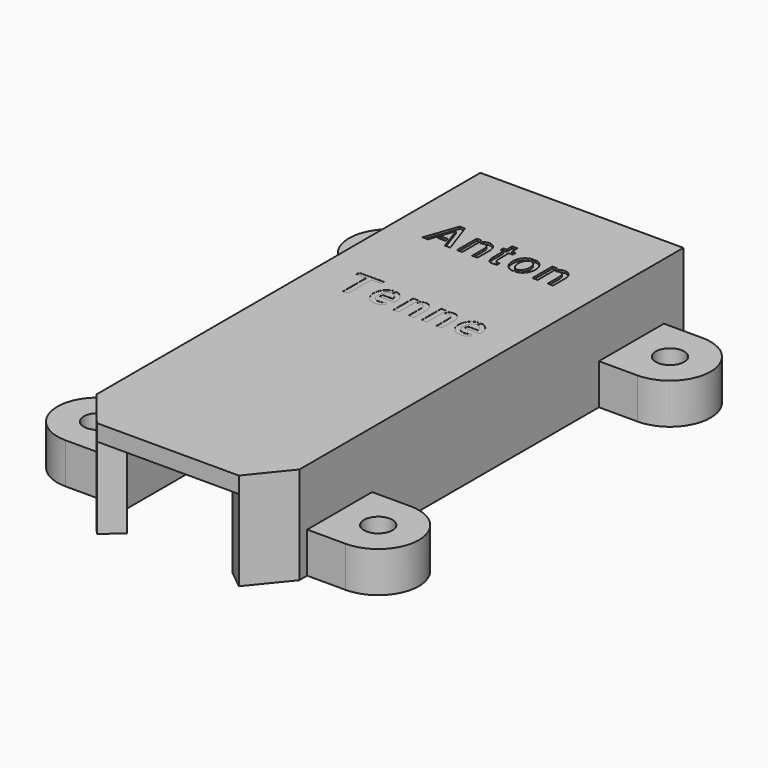
from build123d import *

# Parameters (mm, degrees)
EXTRUDE001_DEPTH = 1
EXTRUDE_DEPTH    = 1
PAD_DEPTH        = 10
PAD001_DEPTH     = 2
POCKET_DEPTH     = 3
SKETCH003_R      = 1.75
PAD002_DEPTH     = 5


with BuildPart() as extrude001:
    # Union → Extrude001 (new body)
    with BuildSketch(Plane(origin=(-7.064568, 4.405674, 12.229239), x_dir=(0, 1, 0), z_dir=(0, 0, 1))):
        Polygon((-2.511998, -0.328358), (1.042954, -0.328358), (1.042954, -1.522388), (1.488002, -1.522388), (1.488002, 1.522388), (1.042954, 1.522388), (1.042954, 0.328358), (-2.511998, 0.328358), align=None)
        with BuildLine():
            add(Edge.make_bspline(
                [(-1.939406, -14.486477), (-1.904128, -14.586884), (-1.849854, -14.687291)],
                knots=[0, 0, 0, 1, 1, 1], degree=2))
            add(Edge.make_bspline(
                [(-1.988253, -14.296517), (-1.974685, -14.38607), (-1.939406, -14.486477)],
                knots=[0, 0, 0, 1, 1, 1], degree=2))
            add(Edge.make_bspline(
                [(-2.001822, -14.147264), (-2.001822, -14.206965), (-1.988253, -14.296517)],
                knots=[0, 0, 0, 1, 1, 1], degree=2))
            add(Edge.make_bspline(
                [(-1.923124, -13.759204), (-2.001822, -13.919313), (-2.001822, -14.147264)],
                knots=[0, 0, 0, 1, 1, 1], degree=2))
            add(Edge.make_bspline(
                [(-1.711455, -13.490547), (-1.844427, -13.599095), (-1.923124, -13.759204)],
                knots=[0, 0, 0, 1, 1, 1], degree=2))
            add(Edge.make_bspline(
                [(-1.396666, -13.330439), (-1.578484, -13.381999), (-1.711455, -13.490547)],
                knots=[0, 0, 0, 1, 1, 1], degree=2))
            add(Edge.make_bspline(
                [(-1.003179, -13.278878), (-1.214847, -13.278878), (-1.396666, -13.330439)],
                knots=[0, 0, 0, 1, 1, 1], degree=2))
            add(Edge.make_bspline(
                [(-0.715526, -13.308729), (-0.883776, -13.278878), (-1.003179, -13.278878)],
                knots=[0, 0, 0, 1, 1, 1], degree=2))
            add(Edge.make_bspline(
                [(-0.387168, -13.41185), (-0.547276, -13.33858), (-0.715526, -13.308729)],
                knots=[0, 0, 0, 1, 1, 1], degree=2))
            add(Edge.make_bspline(
                [(-0.102229, -13.615378), (-0.227059, -13.48512), (-0.387168, -13.41185)],
                knots=[0, 0, 0, 1, 1, 1], degree=2))
            add(Edge.make_bspline(
                [(0.060594, -13.94645), (0.022602, -13.745635), (-0.102229, -13.615378)],
                knots=[0, 0, 0, 1, 1, 1], degree=2))
            Line((0.060594, -13.94645), (0.581625, -13.94645))
            add(Edge.make_bspline(
                [(0.435085, -13.449842), (0.565342, -13.680507), (0.581625, -13.94645)],
                knots=[0, 0, 0, 1, 1, 1], degree=2))
            add(Edge.make_bspline(
                [(0.095872, -13.0455), (0.304827, -13.219177), (0.435085, -13.449842)],
                knots=[0, 0, 0, 1, 1, 1], degree=2))
            add(Edge.make_bspline(
                [(-0.389881, -12.771416), (-0.113084, -12.871823), (0.095872, -13.0455)],
                knots=[0, 0, 0, 1, 1, 1], degree=2))
            add(Edge.make_bspline(
                [(-0.976041, -12.671009), (-0.666679, -12.671009), (-0.389881, -12.771416)],
                knots=[0, 0, 0, 1, 1, 1], degree=2))
            add(Edge.make_bspline(
                [(-1.583911, -12.779557), (-1.301686, -12.671009), (-0.976041, -12.671009)],
                knots=[0, 0, 0, 1, 1, 1], degree=2))
            add(Edge.make_bspline(
                [(-2.077805, -13.072637), (-1.866136, -12.888105), (-1.583911, -12.779557)],
                knots=[0, 0, 0, 1, 1, 1], degree=2))
            add(Edge.make_bspline(
                [(-2.411591, -13.517684), (-2.289474, -13.257169), (-2.077805, -13.072637)],
                knots=[0, 0, 0, 1, 1, 1], degree=2))
            add(Edge.make_bspline(
                [(-2.533708, -14.076707), (-2.533708, -13.7782), (-2.411591, -13.517684)],
                knots=[0, 0, 0, 1, 1, 1], degree=2))
            add(Edge.make_bspline(
                [(-2.419732, -14.684577), (-2.533708, -14.445771), (-2.533708, -14.076707)],
                knots=[0, 0, 0, 1, 1, 1], degree=2))
            add(Edge.make_bspline(
                [(-2.083233, -15.102488), (-2.305757, -14.923383), (-2.419732, -14.684577)],
                knots=[0, 0, 0, 1, 1, 1], degree=2))
            Line((-2.083233, -15.102488), (-1.719596, -14.863682))
            add(Edge.make_bspline(
                [(-1.849854, -14.687291), (-1.79558, -14.787698), (-1.719596, -14.863682)],
                knots=[0, 0, 0, 1, 1, 1], degree=2))
        make_face()
        with BuildLine():
            add(Edge.make_bspline(
                [(-1.939406, -4.00796), (-1.904128, -4.108367), (-1.849854, -4.208774)],
                knots=[0, 0, 0, 1, 1, 1], degree=2))
            add(Edge.make_bspline(
                [(-1.988253, -3.818001), (-1.974685, -3.907553), (-1.939406, -4.00796)],
                knots=[0, 0, 0, 1, 1, 1], degree=2))
            add(Edge.make_bspline(
                [(-2.001822, -3.668747), (-2.001822, -3.728449), (-1.988253, -3.818001)],
                knots=[0, 0, 0, 1, 1, 1], degree=2))
            add(Edge.make_bspline(
                [(-1.923124, -3.280687), (-2.001822, -3.440796), (-2.001822, -3.668747)],
                knots=[0, 0, 0, 1, 1, 1], degree=2))
            add(Edge.make_bspline(
                [(-1.711455, -3.012031), (-1.844427, -3.120579), (-1.923124, -3.280687)],
                knots=[0, 0, 0, 1, 1, 1], degree=2))
            add(Edge.make_bspline(
                [(-1.396666, -2.851922), (-1.578484, -2.903483), (-1.711455, -3.012031)],
                knots=[0, 0, 0, 1, 1, 1], degree=2))
            add(Edge.make_bspline(
                [(-1.003179, -2.800362), (-1.214847, -2.800362), (-1.396666, -2.851922)],
                knots=[0, 0, 0, 1, 1, 1], degree=2))
            add(Edge.make_bspline(
                [(-0.715526, -2.830213), (-0.883776, -2.800362), (-1.003179, -2.800362)],
                knots=[0, 0, 0, 1, 1, 1], degree=2))
            add(Edge.make_bspline(
                [(-0.387168, -2.933333), (-0.547276, -2.860063), (-0.715526, -2.830213)],
                knots=[0, 0, 0, 1, 1, 1], degree=2))
            add(Edge.make_bspline(
                [(-0.102229, -3.136861), (-0.227059, -3.006603), (-0.387168, -2.933333)],
                knots=[0, 0, 0, 1, 1, 1], degree=2))
            add(Edge.make_bspline(
                [(0.060594, -3.467933), (0.022602, -3.267119), (-0.102229, -3.136861)],
                knots=[0, 0, 0, 1, 1, 1], degree=2))
            Line((0.060594, -3.467933), (0.581625, -3.467933))
            add(Edge.make_bspline(
                [(0.435085, -2.971325), (0.565342, -3.20199), (0.581625, -3.467933)],
                knots=[0, 0, 0, 1, 1, 1], degree=2))
            add(Edge.make_bspline(
                [(0.095872, -2.566983), (0.304827, -2.74066), (0.435085, -2.971325)],
                knots=[0, 0, 0, 1, 1, 1], degree=2))
            add(Edge.make_bspline(
                [(-0.389881, -2.292899), (-0.113084, -2.393306), (0.095872, -2.566983)],
                knots=[0, 0, 0, 1, 1, 1], degree=2))
            add(Edge.make_bspline(
                [(-0.976041, -2.192492), (-0.666679, -2.192492), (-0.389881, -2.292899)],
                knots=[0, 0, 0, 1, 1, 1], degree=2))
            add(Edge.make_bspline(
                [(-1.583911, -2.30104), (-1.301686, -2.192492), (-0.976041, -2.192492)],
                knots=[0, 0, 0, 1, 1, 1], degree=2))
            add(Edge.make_bspline(
                [(-2.077805, -2.59412), (-1.866136, -2.409588), (-1.583911, -2.30104)],
                knots=[0, 0, 0, 1, 1, 1], degree=2))
            add(Edge.make_bspline(
                [(-2.411591, -3.039168), (-2.289474, -2.778652), (-2.077805, -2.59412)],
                knots=[0, 0, 0, 1, 1, 1], degree=2))
            add(Edge.make_bspline(
                [(-2.533708, -3.598191), (-2.533708, -3.299683), (-2.411591, -3.039168)],
                knots=[0, 0, 0, 1, 1, 1], degree=2))
            add(Edge.make_bspline(
                [(-2.419732, -4.206061), (-2.533708, -3.967255), (-2.533708, -3.598191)],
                knots=[0, 0, 0, 1, 1, 1], degree=2))
            add(Edge.make_bspline(
                [(-2.083233, -4.623971), (-2.305757, -4.444867), (-2.419732, -4.206061)],
                knots=[0, 0, 0, 1, 1, 1], degree=2))
            Line((-2.083233, -4.623971), (-1.719596, -4.385165))
            add(Edge.make_bspline(
                [(-1.849854, -4.208774), (-1.79558, -4.309181), (-1.719596, -4.385165)],
                knots=[0, 0, 0, 1, 1, 1], degree=2))
        make_face()
        with BuildLine():
            add(Edge.make_bspline(
                [(-0.25691, -11.807508), (-0.389881, -11.831931), (-0.525567, -11.837359)],
                knots=[0, 0, 0, 1, 1, 1], degree=2))
            add(Edge.make_bspline(
                [(-0.001822, -11.731524), (-0.123938, -11.783085), (-0.25691, -11.807508)],
                knots=[0, 0, 0, 1, 1, 1], degree=2))
            add(Edge.make_bspline(
                [(0.212561, -11.587698), (0.120295, -11.679964), (-0.001822, -11.731524)],
                knots=[0, 0, 0, 1, 1, 1], degree=2))
            add(Edge.make_bspline(
                [(0.481218, -11.251199), (0.380811, -11.419448), (0.212561, -11.587698)],
                knots=[0, 0, 0, 1, 1, 1], degree=2))
            add(Edge.make_bspline(
                [(0.581625, -10.838716), (0.581625, -11.082949), (0.481218, -11.251199)],
                knots=[0, 0, 0, 1, 1, 1], degree=2))
            add(Edge.make_bspline(
                [(0.527351, -10.50493), (0.581625, -10.675893), (0.581625, -10.838716)],
                knots=[0, 0, 0, 1, 1, 1], degree=2))
            add(Edge.make_bspline(
                [(0.397093, -10.187427), (0.473077, -10.333967), (0.527351, -10.50493)],
                knots=[0, 0, 0, 1, 1, 1], degree=2))
            Line((0.397093, -10.187427), (-0.020818, -10.187427))
            add(Edge.make_bspline(
                [(0.05788, -10.434374), (0.033456, -10.306829), (-0.020818, -10.187427)],
                knots=[0, 0, 0, 1, 1, 1], degree=2))
            add(Edge.make_bspline(
                [(0.082303, -10.637901), (0.082303, -10.561918), (0.05788, -10.434374)],
                knots=[0, 0, 0, 1, 1, 1], degree=2))
            add(Edge.make_bspline(
                [(0.009033, -10.925554), (0.082303, -10.822433), (0.082303, -10.637901)],
                knots=[0, 0, 0, 1, 1, 1], degree=2))
            add(Edge.make_bspline(
                [(-0.194495, -11.088376), (-0.064237, -11.028675), (0.009033, -10.925554)],
                knots=[0, 0, 0, 1, 1, 1], degree=2))
            add(Edge.make_bspline(
                [(-0.493002, -11.16436), (-0.324752, -11.148078), (-0.194495, -11.088376)],
                knots=[0, 0, 0, 1, 1, 1], degree=2))
            add(Edge.make_bspline(
                [(-0.845784, -11.180642), (-0.661252, -11.180642), (-0.493002, -11.16436)],
                knots=[0, 0, 0, 1, 1, 1], degree=2))
            Line((-0.845784, -11.180642), (-2.511998, -11.180642))
            Line((-2.511998, -11.180642), (-2.511998, -11.842786))
            Line((-2.511998, -11.842786), (-2.40345, -11.842786))
            Line((-2.40345, -11.842786), (-0.79151, -11.842786))
            add(Edge.make_bspline(
                [(-0.525567, -11.837359), (-0.661252, -11.842786), (-0.79151, -11.842786)],
                knots=[0, 0, 0, 1, 1, 1], degree=2))
        make_face()
        with BuildLine():
            add(Edge.make_bspline(
                [(-0.25691, -8.368702), (-0.389881, -8.393125), (-0.525567, -8.398553)],
                knots=[0, 0, 0, 1, 1, 1], degree=2))
            add(Edge.make_bspline(
                [(-0.001822, -8.292718), (-0.123938, -8.344279), (-0.25691, -8.368702)],
                knots=[0, 0, 0, 1, 1, 1], degree=2))
            add(Edge.make_bspline(
                [(0.212561, -8.148892), (0.120295, -8.241158), (-0.001822, -8.292718)],
                knots=[0, 0, 0, 1, 1, 1], degree=2))
            add(Edge.make_bspline(
                [(0.481218, -7.812393), (0.380811, -7.980642), (0.212561, -8.148892)],
                knots=[0, 0, 0, 1, 1, 1], degree=2))
            add(Edge.make_bspline(
                [(0.581625, -7.39991), (0.581625, -7.644143), (0.481218, -7.812393)],
                knots=[0, 0, 0, 1, 1, 1], degree=2))
            add(Edge.make_bspline(
                [(0.527351, -7.066124), (0.581625, -7.237087), (0.581625, -7.39991)],
                knots=[0, 0, 0, 1, 1, 1], degree=2))
            add(Edge.make_bspline(
                [(0.397093, -6.748621), (0.473077, -6.895161), (0.527351, -7.066124)],
                knots=[0, 0, 0, 1, 1, 1], degree=2))
            Line((0.397093, -6.748621), (-0.020818, -6.748621))
            add(Edge.make_bspline(
                [(0.05788, -6.995568), (0.033456, -6.868024), (-0.020818, -6.748621)],
                knots=[0, 0, 0, 1, 1, 1], degree=2))
            add(Edge.make_bspline(
                [(0.082303, -7.199095), (0.082303, -7.123112), (0.05788, -6.995568)],
                knots=[0, 0, 0, 1, 1, 1], degree=2))
            add(Edge.make_bspline(
                [(0.009033, -7.486748), (0.082303, -7.383627), (0.082303, -7.199095)],
                knots=[0, 0, 0, 1, 1, 1], degree=2))
            add(Edge.make_bspline(
                [(-0.194495, -7.64957), (-0.064237, -7.589869), (0.009033, -7.486748)],
                knots=[0, 0, 0, 1, 1, 1], degree=2))
            add(Edge.make_bspline(
                [(-0.493002, -7.725554), (-0.324752, -7.709272), (-0.194495, -7.64957)],
                knots=[0, 0, 0, 1, 1, 1], degree=2))
            add(Edge.make_bspline(
                [(-0.845784, -7.741836), (-0.661252, -7.741836), (-0.493002, -7.725554)],
                knots=[0, 0, 0, 1, 1, 1], degree=2))
            Line((-0.845784, -7.741836), (-2.511998, -7.741836))
            Line((-2.511998, -7.741836), (-2.511998, -8.40398))
            Line((-2.511998, -8.40398), (-2.40345, -8.40398))
            Line((-2.40345, -8.40398), (-0.79151, -8.40398))
            add(Edge.make_bspline(
                [(-0.525567, -8.398553), (-0.661252, -8.40398), (-0.79151, -8.40398)],
                knots=[0, 0, 0, 1, 1, 1], degree=2))
        make_face()
        Polygon((-2.511998, -9.308186), (-2.511998, -9.964903), (0.239698, -9.964903), (0.54906, -9.894346), (0.54906, -9.308186), align=None)
        Polygon((-2.511998, -5.86938), (-2.511998, -6.526097), (0.239698, -6.526097), (0.54906, -6.45554), (0.54906, -5.86938), align=None)
        with BuildLine():
            add(Edge.make_bspline(
                [(0.082303, -4.623971), (-0.123938, -4.792221), (-0.389881, -4.881773)],
                knots=[0, 0, 0, 1, 1, 1], degree=2))
            add(Edge.make_bspline(
                [(0.418802, -4.219629), (0.288545, -4.455721), (0.082303, -4.623971)],
                knots=[0, 0, 0, 1, 1, 1], degree=2))
            add(Edge.make_bspline(
                [(0.576197, -3.690457), (0.54906, -3.983537), (0.418802, -4.219629)],
                knots=[0, 0, 0, 1, 1, 1], degree=2))
            Line((0.576197, -3.690457), (0.066021, -3.690457))
            add(Edge.make_bspline(
                [(-0.026245, -3.9564), (0.049739, -3.836997), (0.066021, -3.690457)],
                knots=[0, 0, 0, 1, 1, 1], degree=2))
            add(Edge.make_bspline(
                [(-0.213491, -4.165355), (-0.102229, -4.075803), (-0.026245, -3.9564)],
                knots=[0, 0, 0, 1, 1, 1], degree=2))
            add(Edge.make_bspline(
                [(-0.45501, -4.30104), (-0.324752, -4.254907), (-0.213491, -4.165355)],
                knots=[0, 0, 0, 1, 1, 1], degree=2))
            add(Edge.make_bspline(
                [(-0.726381, -4.347173), (-0.585268, -4.347173), (-0.45501, -4.30104)],
                knots=[0, 0, 0, 1, 1, 1], degree=2))
            Line((-0.726381, -4.347173), (-0.726381, -3.093442))
            Line((-0.726381, -3.093442), (-1.203993, -3.093442))
            Line((-1.203993, -3.093442), (-1.203993, -4.955043))
            add(Edge.make_bspline(
                [(-0.943477, -4.971325), (-1.073735, -4.971325), (-1.203993, -4.955043)],
                knots=[0, 0, 0, 1, 1, 1], degree=2))
            add(Edge.make_bspline(
                [(-0.389881, -4.881773), (-0.655824, -4.971325), (-0.943477, -4.971325)],
                knots=[0, 0, 0, 1, 1, 1], degree=2))
        make_face()
        with BuildLine():
            add(Edge.make_bspline(
                [(0.082303, -15.102488), (-0.123938, -15.270737), (-0.389881, -15.360289)],
                knots=[0, 0, 0, 1, 1, 1], degree=2))
            add(Edge.make_bspline(
                [(0.418802, -14.698146), (0.288545, -14.934238), (0.082303, -15.102488)],
                knots=[0, 0, 0, 1, 1, 1], degree=2))
            add(Edge.make_bspline(
                [(0.576197, -14.168973), (0.54906, -14.462053), (0.418802, -14.698146)],
                knots=[0, 0, 0, 1, 1, 1], degree=2))
            Line((0.576197, -14.168973), (0.066021, -14.168973))
            add(Edge.make_bspline(
                [(-0.026245, -14.434916), (0.049739, -14.315513), (0.066021, -14.168973)],
                knots=[0, 0, 0, 1, 1, 1], degree=2))
            add(Edge.make_bspline(
                [(-0.213491, -14.643872), (-0.102229, -14.554319), (-0.026245, -14.434916)],
                knots=[0, 0, 0, 1, 1, 1], degree=2))
            add(Edge.make_bspline(
                [(-0.45501, -14.779557), (-0.324752, -14.733424), (-0.213491, -14.643872)],
                knots=[0, 0, 0, 1, 1, 1], degree=2))
            add(Edge.make_bspline(
                [(-0.726381, -14.82569), (-0.585268, -14.82569), (-0.45501, -14.779557)],
                knots=[0, 0, 0, 1, 1, 1], degree=2))
            Line((-0.726381, -14.82569), (-0.726381, -13.571958))
            Line((-0.726381, -13.571958), (-1.203993, -13.571958))
            Line((-1.203993, -13.571958), (-1.203993, -15.433559))
            add(Edge.make_bspline(
                [(-0.943477, -15.449842), (-1.073735, -15.449842), (-1.203993, -15.433559)],
                knots=[0, 0, 0, 1, 1, 1], degree=2))
            add(Edge.make_bspline(
                [(-0.389881, -15.360289), (-0.655824, -15.449842), (-0.943477, -15.449842)],
                knots=[0, 0, 0, 1, 1, 1], degree=2))
        make_face()
    extrude(amount=EXTRUDE001_DEPTH)


with BuildPart() as extrude001_1:
    # Extrude001 placement: moved
    add(extrude001.part.moved(Location((0, 0, -0.25))))


with BuildPart() as extrude_body:
    # Union001 → Extrude (new body)
    with BuildSketch(Plane(origin=(-6.739484, 17.310937, 12), x_dir=(0, 1, 0), z_dir=(0, 0, 1))):
        Polygon((-1.87963, 1.039937), (1.116299, -0.007552), (-1.87963, -1.044187), (-1.87963, -1.717186), (2.114943, -0.327769), (2.114943, 0.318092), (-1.87963, 1.718364), align=None)
        with BuildLine():
            add(Edge.make_bspline(
                [(-1.396591, -7.028267), (-1.450865, -7.117819), (-1.464433, -7.229081)],
                knots=[0, 0, 0, 1, 1, 1], degree=2))
            add(Edge.make_bspline(
                [(-1.239196, -6.889868), (-1.342317, -6.938715), (-1.396591, -7.028267)],
                knots=[0, 0, 0, 1, 1, 1], degree=2))
            add(Edge.make_bspline(
                [(-0.951543, -6.841021), (-1.136075, -6.841021), (-1.239196, -6.889868)],
                knots=[0, 0, 0, 1, 1, 1], degree=2))
            Line((-0.951543, -6.841021), (0.736381, -6.841021))
            Line((0.736381, -6.841021), (0.736381, -7.329488))
            Line((0.736381, -7.329488), (1.181428, -7.329488))
            Line((1.181428, -7.329488), (1.181428, -6.841021))
            Line((1.181428, -6.841021), (2.049814, -6.841021))
            Line((2.049814, -6.841021), (2.049814, -6.184305))
            Line((2.049814, -6.184305), (1.181428, -6.184305))
            Line((1.181428, -6.184305), (1.181428, -5.782677))
            Line((1.181428, -5.782677), (0.736381, -5.782677))
            Line((0.736381, -5.782677), (0.736381, -6.184305))
            Line((0.736381, -6.184305), (-0.913551, -6.184305))
            add(Edge.make_bspline(
                [(-1.141503, -6.197873), (-0.994962, -6.184305), (-0.913551, -6.184305)],
                knots=[0, 0, 0, 1, 1, 1], degree=2))
            add(Edge.make_bspline(
                [(-1.442724, -6.263002), (-1.288043, -6.211442), (-1.141503, -6.197873)],
                knots=[0, 0, 0, 1, 1, 1], degree=2))
            add(Edge.make_bspline(
                [(-1.724949, -6.417684), (-1.597405, -6.314563), (-1.442724, -6.263002)],
                knots=[0, 0, 0, 1, 1, 1], degree=2))
            add(Edge.make_bspline(
                [(-1.885057, -6.705336), (-1.852493, -6.520804), (-1.724949, -6.417684)],
                knots=[0, 0, 0, 1, 1, 1], degree=2))
            add(Edge.make_bspline(
                [(-1.90134, -6.849162), (-1.895912, -6.765038), (-1.885057, -6.705336)],
                knots=[0, 0, 0, 1, 1, 1], degree=2))
            add(Edge.make_bspline(
                [(-1.906767, -7.014698), (-1.906767, -6.933287), (-1.90134, -6.849162)],
                knots=[0, 0, 0, 1, 1, 1], degree=2))
            add(Edge.make_bspline(
                [(-1.904053, -7.180234), (-1.906767, -7.09611), (-1.906767, -7.014698)],
                knots=[0, 0, 0, 1, 1, 1], degree=2))
            add(Edge.make_bspline(
                [(-1.895912, -7.324061), (-1.90134, -7.264359), (-1.904053, -7.180234)],
                knots=[0, 0, 0, 1, 1, 1], degree=2))
            add(Edge.make_bspline(
                [(-1.87963, -7.465173), (-1.890485, -7.394617), (-1.895912, -7.324061)],
                knots=[0, 0, 0, 1, 1, 1], degree=2))
            Line((-1.87963, -7.465173), (-1.478002, -7.465173))
            add(Edge.make_bspline(
                [(-1.464433, -7.229081), (-1.478002, -7.340343), (-1.478002, -7.465173)],
                knots=[0, 0, 0, 1, 1, 1], degree=2))
        make_face()
        with BuildLine():
            add(Edge.make_bspline(
                [(0.375458, -14.325237), (0.242487, -14.34966), (0.106801, -14.355087)],
                knots=[0, 0, 0, 1, 1, 1], degree=2))
            add(Edge.make_bspline(
                [(0.630546, -14.249253), (0.50843, -14.300813), (0.375458, -14.325237)],
                knots=[0, 0, 0, 1, 1, 1], degree=2))
            add(Edge.make_bspline(
                [(0.844929, -14.105427), (0.752663, -14.197693), (0.630546, -14.249253)],
                knots=[0, 0, 0, 1, 1, 1], degree=2))
            add(Edge.make_bspline(
                [(1.113586, -13.768927), (1.013179, -13.937177), (0.844929, -14.105427)],
                knots=[0, 0, 0, 1, 1, 1], degree=2))
            add(Edge.make_bspline(
                [(1.213993, -13.356444), (1.213993, -13.600678), (1.113586, -13.768927)],
                knots=[0, 0, 0, 1, 1, 1], degree=2))
            add(Edge.make_bspline(
                [(1.159719, -13.022659), (1.213993, -13.193622), (1.213993, -13.356444)],
                knots=[0, 0, 0, 1, 1, 1], degree=2))
            add(Edge.make_bspline(
                [(1.029461, -12.705155), (1.105445, -12.851695), (1.159719, -13.022659)],
                knots=[0, 0, 0, 1, 1, 1], degree=2))
            Line((1.029461, -12.705155), (0.61155, -12.705155))
            add(Edge.make_bspline(
                [(0.690248, -12.952102), (0.665824, -12.824558), (0.61155, -12.705155)],
                knots=[0, 0, 0, 1, 1, 1], degree=2))
            add(Edge.make_bspline(
                [(0.714671, -13.15563), (0.714671, -13.079646), (0.690248, -12.952102)],
                knots=[0, 0, 0, 1, 1, 1], degree=2))
            add(Edge.make_bspline(
                [(0.641401, -13.443283), (0.714671, -13.340162), (0.714671, -13.15563)],
                knots=[0, 0, 0, 1, 1, 1], degree=2))
            add(Edge.make_bspline(
                [(0.437873, -13.606105), (0.568131, -13.546404), (0.641401, -13.443283)],
                knots=[0, 0, 0, 1, 1, 1], degree=2))
            add(Edge.make_bspline(
                [(0.139366, -13.682089), (0.307616, -13.665807), (0.437873, -13.606105)],
                knots=[0, 0, 0, 1, 1, 1], degree=2))
            add(Edge.make_bspline(
                [(-0.213416, -13.698371), (-0.028884, -13.698371), (0.139366, -13.682089)],
                knots=[0, 0, 0, 1, 1, 1], degree=2))
            Line((-0.213416, -13.698371), (-1.87963, -13.698371))
            Line((-1.87963, -13.698371), (-1.87963, -14.360515))
            Line((-1.87963, -14.360515), (-1.771082, -14.360515))
            Line((-1.771082, -14.360515), (-0.159142, -14.360515))
            add(Edge.make_bspline(
                [(0.106801, -14.355087), (-0.028884, -14.360515), (-0.159142, -14.360515)],
                knots=[0, 0, 0, 1, 1, 1], degree=2))
        make_face()
        with BuildLine():
            add(Edge.make_bspline(
                [(0.375458, -5.027724), (0.242487, -5.052148), (0.106801, -5.057575)],
                knots=[0, 0, 0, 1, 1, 1], degree=2))
            add(Edge.make_bspline(
                [(0.630546, -4.951741), (0.50843, -5.003301), (0.375458, -5.027724)],
                knots=[0, 0, 0, 1, 1, 1], degree=2))
            add(Edge.make_bspline(
                [(0.844929, -4.807914), (0.752663, -4.90018), (0.630546, -4.951741)],
                knots=[0, 0, 0, 1, 1, 1], degree=2))
            add(Edge.make_bspline(
                [(1.113586, -4.471415), (1.013179, -4.639665), (0.844929, -4.807914)],
                knots=[0, 0, 0, 1, 1, 1], degree=2))
            add(Edge.make_bspline(
                [(1.213993, -4.058932), (1.213993, -4.303165), (1.113586, -4.471415)],
                knots=[0, 0, 0, 1, 1, 1], degree=2))
            add(Edge.make_bspline(
                [(1.159719, -3.725146), (1.213993, -3.89611), (1.213993, -4.058932)],
                knots=[0, 0, 0, 1, 1, 1], degree=2))
            add(Edge.make_bspline(
                [(1.029461, -3.407643), (1.105445, -3.554183), (1.159719, -3.725146)],
                knots=[0, 0, 0, 1, 1, 1], degree=2))
            Line((1.029461, -3.407643), (0.61155, -3.407643))
            add(Edge.make_bspline(
                [(0.690248, -3.65459), (0.665824, -3.527046), (0.61155, -3.407643)],
                knots=[0, 0, 0, 1, 1, 1], degree=2))
            add(Edge.make_bspline(
                [(0.714671, -3.858118), (0.714671, -3.782134), (0.690248, -3.65459)],
                knots=[0, 0, 0, 1, 1, 1], degree=2))
            add(Edge.make_bspline(
                [(0.641401, -4.14577), (0.714671, -4.04265), (0.714671, -3.858118)],
                knots=[0, 0, 0, 1, 1, 1], degree=2))
            add(Edge.make_bspline(
                [(0.437873, -4.308593), (0.568131, -4.248891), (0.641401, -4.14577)],
                knots=[0, 0, 0, 1, 1, 1], degree=2))
            add(Edge.make_bspline(
                [(0.139366, -4.384576), (0.307616, -4.368294), (0.437873, -4.308593)],
                knots=[0, 0, 0, 1, 1, 1], degree=2))
            add(Edge.make_bspline(
                [(-0.213416, -4.400859), (-0.028884, -4.400859), (0.139366, -4.384576)],
                knots=[0, 0, 0, 1, 1, 1], degree=2))
            Line((-0.213416, -4.400859), (-1.87963, -4.400859))
            Line((-1.87963, -4.400859), (-1.87963, -5.063002))
            Line((-1.87963, -5.063002), (-1.771082, -5.063002))
            Line((-1.771082, -5.063002), (-0.159142, -5.063002))
            add(Edge.make_bspline(
                [(0.106801, -5.057575), (-0.028884, -5.063002), (-0.159142, -5.063002)],
                knots=[0, 0, 0, 1, 1, 1], degree=2))
        make_face()
        with BuildLine():
            add(Edge.make_bspline(
                [(0.717385, -10.627362), (0.50843, -10.792898), (0.231632, -10.885164)],
                knots=[0, 0, 0, 1, 1, 1], degree=2))
            add(Edge.make_bspline(
                [(1.053884, -10.217593), (0.92634, -10.461826), (0.717385, -10.627362)],
                knots=[0, 0, 0, 1, 1, 1], degree=2))
            add(Edge.make_bspline(
                [(1.197711, -9.674852), (1.181428, -9.97336), (1.053884, -10.217593)],
                knots=[0, 0, 0, 1, 1, 1], degree=2))
            Line((1.197711, -9.674852), (0.687534, -9.674852))
            add(Edge.make_bspline(
                [(0.568131, -9.92994), (0.660397, -9.815965), (0.687534, -9.674852)],
                knots=[0, 0, 0, 1, 1, 1], degree=2))
            add(Edge.make_bspline(
                [(0.334753, -10.125327), (0.475865, -10.043916), (0.568131, -9.92994)],
                knots=[0, 0, 0, 1, 1, 1], degree=2))
            add(Edge.make_bspline(
                [(0.017249, -10.247444), (0.19364, -10.206738), (0.334753, -10.125327)],
                knots=[0, 0, 0, 1, 1, 1], degree=2))
            add(Edge.make_bspline(
                [(-0.359956, -10.288149), (-0.159142, -10.288149), (0.017249, -10.247444)],
                knots=[0, 0, 0, 1, 1, 1], degree=2))
            add(Edge.make_bspline(
                [(-1.038382, -10.117186), (-0.756157, -10.288149), (-0.359956, -10.288149)],
                knots=[0, 0, 0, 1, 1, 1], degree=2))
            add(Edge.make_bspline(
                [(-1.380308, -9.674852), (-1.320607, -9.946223), (-1.038382, -10.117186)],
                knots=[0, 0, 0, 1, 1, 1], degree=2))
            Line((-1.380308, -9.674852), (-1.90134, -9.674852))
            add(Edge.make_bspline(
                [(-1.7548, -10.206738), (-1.87963, -9.962505), (-1.90134, -9.674852)],
                knots=[0, 0, 0, 1, 1, 1], degree=2))
            add(Edge.make_bspline(
                [(-1.426441, -10.619221), (-1.629969, -10.450972), (-1.7548, -10.206738)],
                knots=[0, 0, 0, 1, 1, 1], degree=2))
            add(Edge.make_bspline(
                [(-0.94883, -10.882451), (-1.222914, -10.787471), (-1.426441, -10.619221)],
                knots=[0, 0, 0, 1, 1, 1], degree=2))
            add(Edge.make_bspline(
                [(-0.359956, -10.97743), (-0.674745, -10.97743), (-0.94883, -10.882451)],
                knots=[0, 0, 0, 1, 1, 1], degree=2))
            add(Edge.make_bspline(
                [(0.231632, -10.885164), (-0.045166, -10.97743), (-0.359956, -10.97743)],
                knots=[0, 0, 0, 1, 1, 1], degree=2))
        make_face()
        with BuildLine():
            add(Edge.make_bspline(
                [(0.711957, -8.516101), (0.915485, -8.687064), (1.040316, -8.92587)],
                knots=[0, 0, 0, 1, 1, 1], degree=2))
            add(Edge.make_bspline(
                [(0.237059, -8.252871), (0.50843, -8.345137), (0.711957, -8.516101)],
                knots=[0, 0, 0, 1, 1, 1], degree=2))
            add(Edge.make_bspline(
                [(-0.349101, -8.160605), (-0.034311, -8.160605), (0.237059, -8.252871)],
                knots=[0, 0, 0, 1, 1, 1], degree=2))
            add(Edge.make_bspline(
                [(-0.935261, -8.250158), (-0.658463, -8.160605), (-0.349101, -8.160605)],
                knots=[0, 0, 0, 1, 1, 1], degree=2))
            add(Edge.make_bspline(
                [(-1.4183, -8.507959), (-1.212059, -8.33971), (-0.935261, -8.250158)],
                knots=[0, 0, 0, 1, 1, 1], degree=2))
            add(Edge.make_bspline(
                [(-1.752086, -8.915015), (-1.624542, -8.676209), (-1.4183, -8.507959)],
                knots=[0, 0, 0, 1, 1, 1], degree=2))
            add(Edge.make_bspline(
                [(-1.90134, -9.452328), (-1.87963, -9.153821), (-1.752086, -8.915015)],
                knots=[0, 0, 0, 1, 1, 1], degree=2))
            Line((-1.90134, -9.452328), (-1.380308, -9.452328))
            add(Edge.make_bspline(
                [(-1.266333, -9.199954), (-1.358599, -9.311216), (-1.380308, -9.452328)],
                knots=[0, 0, 0, 1, 1, 1], degree=2))
            add(Edge.make_bspline(
                [(-1.032954, -9.012708), (-1.174067, -9.088692), (-1.266333, -9.199954)],
                knots=[0, 0, 0, 1, 1, 1], degree=2))
            add(Edge.make_bspline(
                [(-0.712737, -8.896019), (-0.891842, -8.936725), (-1.032954, -9.012708)],
                knots=[0, 0, 0, 1, 1, 1], degree=2))
            add(Edge.make_bspline(
                [(-0.332819, -8.855314), (-0.533633, -8.855314), (-0.712737, -8.896019)],
                knots=[0, 0, 0, 1, 1, 1], degree=2))
            add(Edge.make_bspline(
                [(0.345607, -9.018136), (0.063382, -8.855314), (-0.332819, -8.855314)],
                knots=[0, 0, 0, 1, 1, 1], degree=2))
            add(Edge.make_bspline(
                [(0.687534, -9.452328), (0.627833, -9.180958), (0.345607, -9.018136)],
                knots=[0, 0, 0, 1, 1, 1], degree=2))
            Line((0.687534, -9.452328), (1.192283, -9.452328))
            add(Edge.make_bspline(
                [(1.040316, -8.92587), (1.165146, -9.164676), (1.192283, -9.452328)],
                knots=[0, 0, 0, 1, 1, 1], degree=2))
        make_face()
        Polygon((-1.87963, -11.825915), (-1.87963, -12.482632), (0.872066, -12.482632), (1.181428, -12.412075), (1.181428, -11.825915), align=None)
        Polygon((-1.87963, -2.528403), (-1.87963, -3.185119), (0.872066, -3.185119), (1.181428, -3.114563), (1.181428, -2.528403), align=None)
        Polygon((-0.609616, 0.361511), (-1.049237, 0.513479), (-1.049237, -0.523156), (-0.609616, -0.365761), align=None)
    extrude(amount=EXTRUDE_DEPTH)


with BuildPart() as extrude_body_1:
    # Extrude placement: moved
    add(extrude_body.part.moved(Location((0, 0, -0.25))))


with BuildPart() as cut001:
    # Sketch → Pad (new body)
    with BuildSketch(Plane.XY):
        Polygon((-9.5, 0), (-9.5, 26.4), (9.5, 26.4), (9.5, 0), (9.75, -2.5), (9.75, -28.5), (6.5, -32.5), (8.743255, -34.322644), (12.5, -29.698958), (12.5, -2.5), (12.5, 0), (12.5, 29.4), (-12.5, 29.4), (-12.5, 0), (-12.5, -2.5), (-12.5, -29.698958), (-8.743255, -34.322644), (-6.5, -32.5), (-9.75, -28.5), (-9.75, -2.5), align=None)
    extrude(amount=PAD_DEPTH)

    # Sketch001 (on Face16 of Pad) → Pad001 (join)
    with BuildSketch(Plane.XY.offset(10)):
        Polygon((-12.5, 29.4), (12.5, 29.4), (12.5, -29.698958), (8.743255, -34.322644), (-8.743255, -34.322644), (-12.5, -29.698958), align=None)
    extrude(amount=PAD001_DEPTH)

    # Sketch002 (on Face18 of Pad001) → Pocket (cut)
    with BuildSketch(Plane(origin=(0, 29.4, 0), x_dir=(-1, 0, 0), z_dir=(0, 1, 0))):
        with BuildLine():
            Line((-8.180152, -4.320431), (-8.180152, 1.840779))
            ThreePointArc((8.180152, 1.840779), (0, 10.020931), (-8.180152, 1.840779))
            Line((8.180152, -4.320431), (8.180152, 1.840779))
            Line((-8.180152, -4.320431), (8.180152, -4.320431))
        make_face()
    extrude(amount=-POCKET_DEPTH, mode=Mode.SUBTRACT)

    # Sketch003 (on Face24 of Pocket) → Pad002 (join)
    with BuildSketch(Plane(origin=(0, 0, 0), x_dir=(1, 0, 0), z_dir=(0, 0, -1))):
        with BuildLine():
            Line((9.75, 28.5), (17.25, 28.5))
            ThreePointArc((17.25, 18.5), (22.25, 23.5), (17.25, 28.5))
            Line((9.75, 18.5), (17.25, 18.5))
            Line((9.75, 28.5), (9.75, 18.5))
        make_face()
        with Locations((17.25, 23.5)):
            Circle(SKETCH003_R, mode=Mode.SUBTRACT)
        with BuildLine():
            Line((9.5, -16.4), (17.25, -16.4))
            ThreePointArc((17.25, -26.4), (22.25, -21.4), (17.25, -16.4))
            Line((9.5, -26.4), (17.25, -26.4))
            Line((9.5, -26.4), (9.5, -16.4))
        make_face()
        with Locations((17.25, -21.4)):
            Circle(SKETCH003_R, mode=Mode.SUBTRACT)
        with BuildLine():
            Line((-9.75, 28.5), (-17.25, 28.5))
            ThreePointArc((-17.25, 28.5), (-22.25, 23.5), (-17.25, 18.5))
            Line((-9.75, 18.5), (-17.25, 18.5))
            Line((-9.75, 18.5), (-9.75, 28.5))
        make_face()
        with Locations((-17.25, 23.5)):
            Circle(SKETCH003_R, mode=Mode.SUBTRACT)
        with BuildLine():
            Line((-9.5, -16.4), (-17.25, -16.4))
            ThreePointArc((-17.25, -16.4), (-22.25, -21.4), (-17.25, -26.4))
            Line((-9.5, -26.4), (-17.25, -26.4))
            Line((-9.5, -16.4), (-9.5, -26.4))
        make_face()
        with Locations((-17.25, -21.4)):
            Circle(SKETCH003_R, mode=Mode.SUBTRACT)
    extrude(amount=-PAD002_DEPTH)

    # Cut: cut Extrude body
    add(extrude_body_1.part, mode=Mode.SUBTRACT)

    # Cut001: cut Extrude001
    add(extrude001_1.part, mode=Mode.SUBTRACT)


solid = cut001.part
